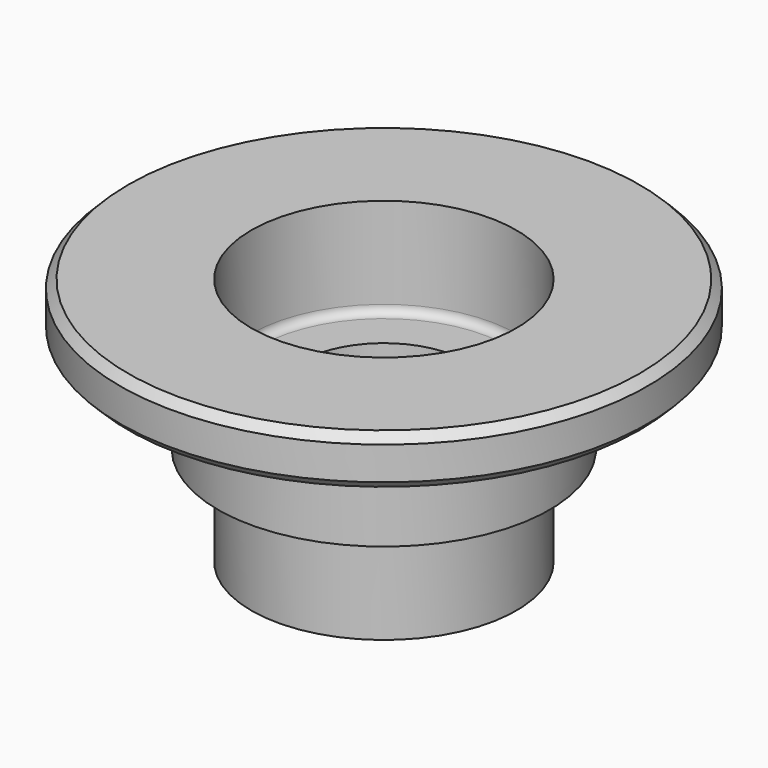
from build123d import *

# Parameters (mm, degrees)
F2_SIZE = 0.5
F3_SIZE = 0.5


with BuildPart() as f1:
    # F0 (on Front) → F1 (revolve)
    with BuildSketch(Plane.XZ):
        with BuildLine():
            Line((-15.92432, 12), (-10, 12))
            Line((-10, 12), (-10, 6))
            Line((-10, 6), (-8, 6))
            Line((-8, 6), (-8, 0))
            Line((-8, 0), (-5, 0))
            Line((-5, 0), (-5, 9))
            Line((-5, 9), (-7.5, 9))
            ThreePointArc((-7.5, 9), (-7.853553, 9.146447), (-8, 9.5))
            Line((-8, 9.5), (-8, 15))
            Line((-8, 15), (-15.92432, 15))
            Line((-15.92432, 15), (-15.92432, 12))
        make_face()
    revolve(axis=Axis((0, 0, 8.069702), (0, 0, 1)))

    # F2
    f2_edges = [f1.edges().sort_by_distance(p)[0] for p in [
        (8, 0, 6),
    ]]
    chamfer(f2_edges, length=F2_SIZE)

    # F3
    f3_edges = [f1.edges().sort_by_distance(p)[0] for p in [
        (15.92432, 0, 12),
        (15.92432, 0, 15),
        (10, 0, 12),
    ]]
    chamfer(f3_edges, length=F3_SIZE)


solid = f1.part
